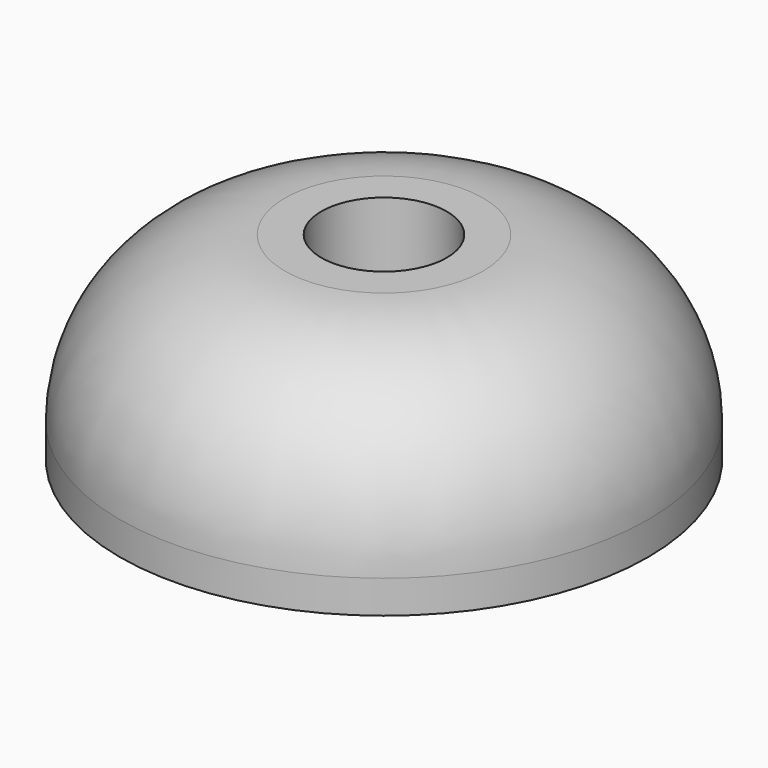
from build123d import *

# Parameters (mm, degrees)
PAD_DEPTH          = 0.6
POLARPATTERN_COUNT = 5


with BuildPart() as part:
    # Sketch → Revolution (revolve)
    with BuildSketch(Plane.XZ):
        with BuildLine():
            Line((16, 0), (16, 2))
            ThreePointArc((16, 2), (13.071068, 9.071068), (6, 12))
            Line((3.8, 12), (6, 12))
            Line((3.8, 8), (3.8, 12))
            Line((1.8, 6), (3.8, 8))
            Line((1.8, 6), (1.8, 0))
            Line((1.8, 0), (3.8, 0))
            Line((3.8, 0), (3.8, 5.5))
            Line((3.8, 5.5), (5.5, 7.2))
            Line((5.5, 7.2), (5.5, 10))
            ThreePointArc((14, 2), (11.478291, 7.836309), (5.5, 10))
            Line((14, 0), (14, 2))
            Line((16, 0), (14, 0))
        make_face()
    revolve(axis=Axis((0, 0, 0), (0, 0, 1)))

    # Sketch001 → Pad (new body, symmetric)
    with BuildSketch(Plane.XZ):
        with BuildLine():
            Line((14.5, 0), (14.5, 2))
            ThreePointArc((14.5, 2), (11.892744, 8.543126), (5.5, 11.5))
            Line((5.5, 7.5), (5.5, 11.5))
            Line((3.5, 5.5), (5.5, 7.5))
            Line((3.5, 0), (3.5, 5.5))
            Line((3.5, 0), (14.5, 0))
        make_face()
    pad = extrude(amount=PAD_DEPTH, both=True)

    # PolarPattern: Pad ×5 about axis
    polarpattern_axis = Axis((0, 0, 0), (0, 0, 1))
    for i in range(1, POLARPATTERN_COUNT):
        add(pad.rotate(polarpattern_axis, i * 360 / POLARPATTERN_COUNT))


solid = part.part
